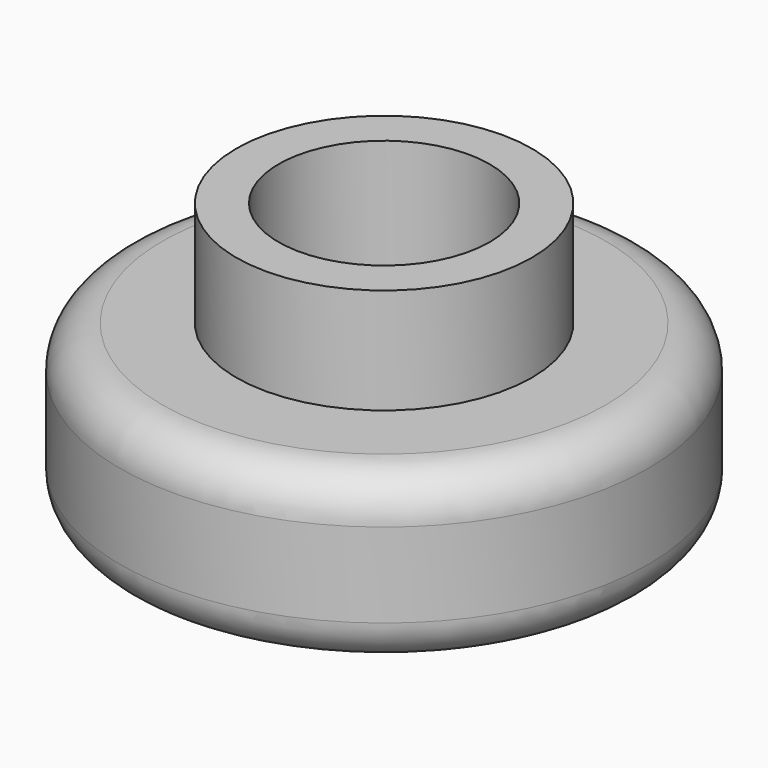
from build123d import *

# Parameters (mm, degrees)
F0_R     = 12.5
F1_DEPTH = 8
F2_R     = 7
F3_DEPTH = 5
F4_R     = 5
F5_DEPTH = 25
F6_R     = 9
F7_DEPTH = 4
F8_R     = 2


with BuildPart() as f1:
    # F0 (on Top) → F1 (new body)
    with BuildSketch(Plane.XY):
        Circle(F0_R)
    extrude(amount=F1_DEPTH)

    # F2 (on face) → F3 (join)
    with BuildSketch(Plane.XY.offset(8)):
        Circle(F2_R)
    extrude(amount=F3_DEPTH)

    # F4 (on face) → F5 (cut)
    with BuildSketch(Plane.XY.offset(13)):
        Circle(F4_R)
    extrude(amount=-F5_DEPTH, mode=Mode.SUBTRACT)

    # F6 (on face) → F7 (cut)
    with BuildSketch(Plane(origin=(0, 0, 0), x_dir=(1, 0, 0), z_dir=(0, 0, -1))):
        Circle(F6_R)
    extrude(amount=-F7_DEPTH, mode=Mode.SUBTRACT)

    # F8
    f8_edges = [f1.edges().sort_by_distance(p)[0] for p in [
        (-12.5, 0, 0),
        (-12.5, 0, 8),
    ]]
    fillet(f8_edges, radius=F8_R)


solid = f1.part
